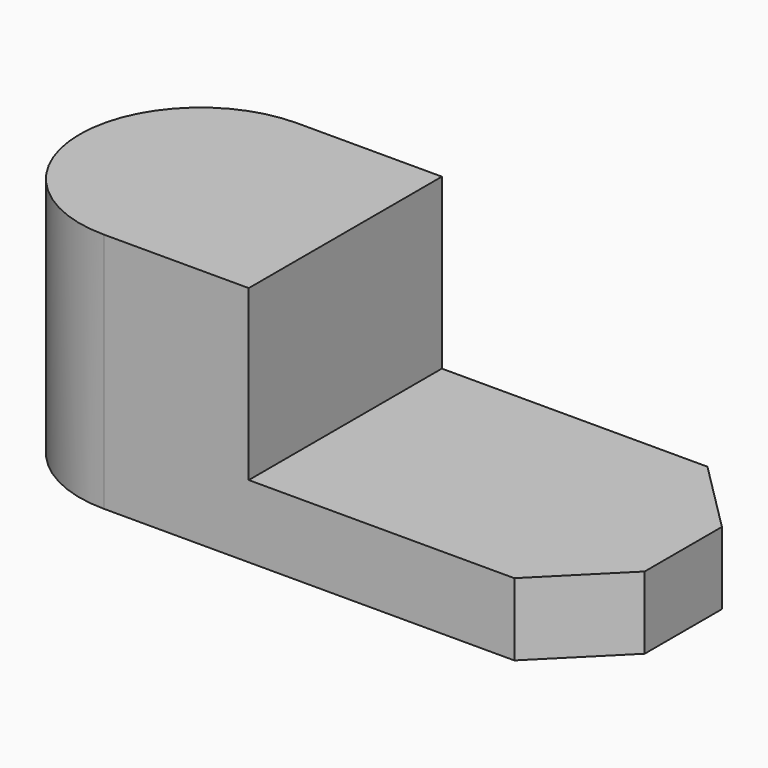
from build123d import *

# Parameters (mm, degrees)
F1_DEPTH = 9
F4_DEPTH = 21


with BuildPart() as f1:
    # F0 (on Top) → F1 (new body)
    with BuildSketch(Plane.XY):
        with BuildLine():
            Line((51, 30), (0, 30))
            ThreePointArc((0, 30), (-15, 15), (0, 0))
            Line((0, 0), (51, 0))
            Line((51, 0), (60, 9))
            Line((60, 9), (60, 21))
            Line((60, 21), (51, 30))
        make_face()
    extrude(amount=F1_DEPTH)

    # F2 (on face) → F4 (join)
    with BuildSketch(Plane.XY.offset(9)):
        with BuildLine():
            Line((18, 30), (0, 30))
            ThreePointArc((0, 30), (-15, 15), (0, 0))
            Line((0, 0), (18, 0))
            Line((18, 0), (18, 30))
        make_face()
    extrude(amount=F4_DEPTH)


solid = f1.part
